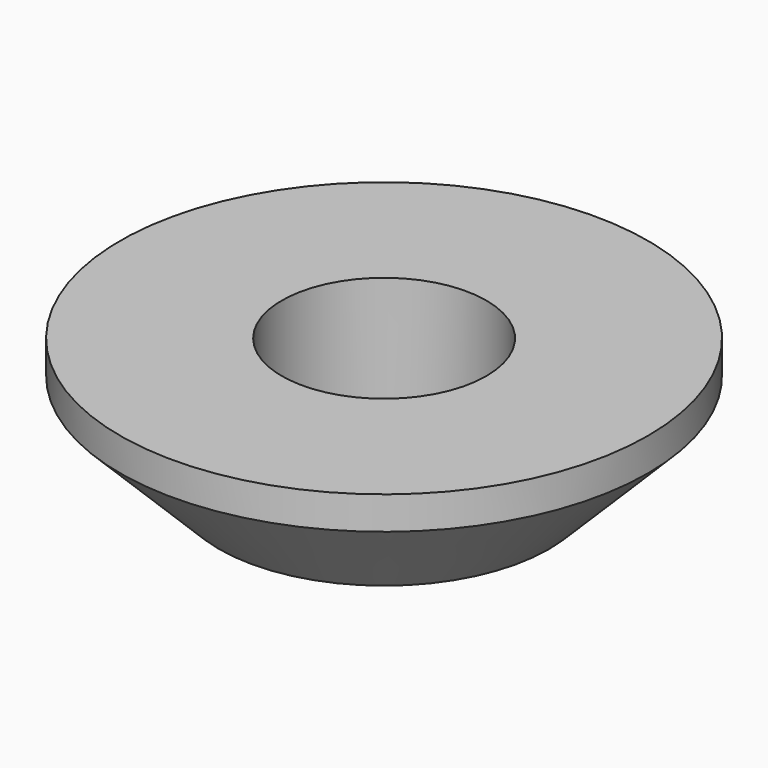
from build123d import *

# Parameters (mm, degrees)
F0_R     = 8
F0_R_2   = 3.1
F1_DEPTH = 4
F2_SIZE2 = 3
F2_SIZE  = 3


with BuildPart() as f1:
    # F0 (on Top) → F1 (new body)
    with BuildSketch(Plane.XY):
        Circle(F0_R)
        Circle(F0_R_2, mode=Mode.SUBTRACT)
    extrude(amount=F1_DEPTH)

    # F2
    f2_edges = [f1.edges().sort_by_distance(p)[0] for p in [
        (-8, 0, 0),
    ]]
    chamfer(f2_edges, length=F2_SIZE, length2=F2_SIZE2)


solid = f1.part
